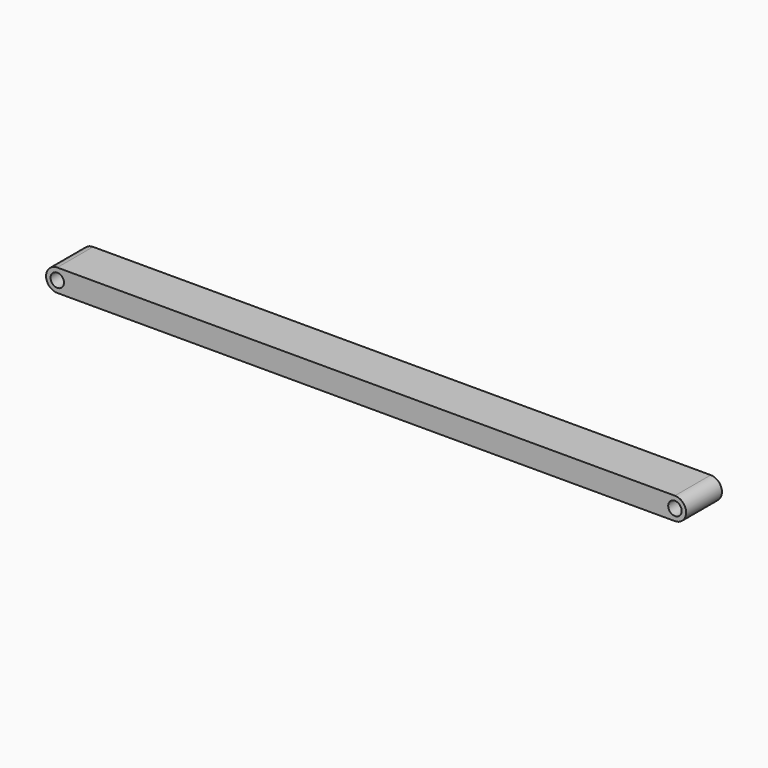
from build123d import *

# Parameters (mm, degrees)
F0_R     = 1.5
F1_DEPTH = 5


with BuildPart() as f1:
    # F0 (on Front) → F1 (new body, symmetric)
    with BuildSketch(Plane.XZ):
        with BuildLine():
            Line((0, 2.5), (-138.000001, 2.5))
            ThreePointArc((-138.000001, 2.5), (-140.5, 0), (-138, -2.5))
            Line((-138, -2.5), (0, -2.5))
            ThreePointArc((0, -2.5), (2.5, 0), (0, 2.5))
        make_face()
        with Locations((-138, 0)):
            Circle(F0_R, mode=Mode.SUBTRACT)
        Circle(F0_R, mode=Mode.SUBTRACT)
    extrude(amount=F1_DEPTH, both=True)


solid = f1.part
